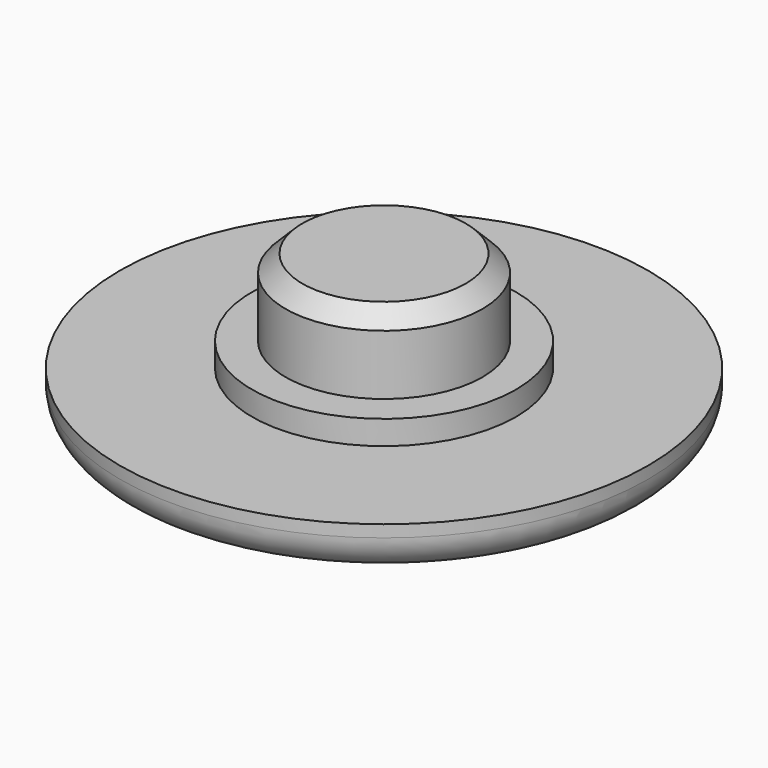
from build123d import *

# Parameters (mm, degrees)
F0_R     = 11
F1_DEPTH = 2
F2_R     = 5.5
F3_DEPTH = 1
F4_R     = 4.1
F5_DEPTH = 3.2
F6_R     = 1.5
F7_SIZE  = 0.7


with BuildPart() as f1:
    # F0 (on Top) → F1 (new body)
    with BuildSketch(Plane.XY):
        Circle(F0_R)
    extrude(amount=F1_DEPTH)

    # F2 (on face) → F3 (join)
    with BuildSketch(Plane.XY.offset(2)):
        Circle(F2_R)
    extrude(amount=F3_DEPTH)

    # F4 (on face) → F5 (join)
    with BuildSketch(Plane.XY.offset(3)):
        Circle(F4_R)
    extrude(amount=F5_DEPTH)

    # F6
    f6_edges = [f1.edges().sort_by_distance(p)[0] for p in [
        (-11, 0, 0),
    ]]
    fillet(f6_edges, radius=F6_R)

    # F7
    f7_edges = [f1.edges().sort_by_distance(p)[0] for p in [
        (-4.1, 0, 6.2),
    ]]
    chamfer(f7_edges, length=F7_SIZE)


solid = f1.part
